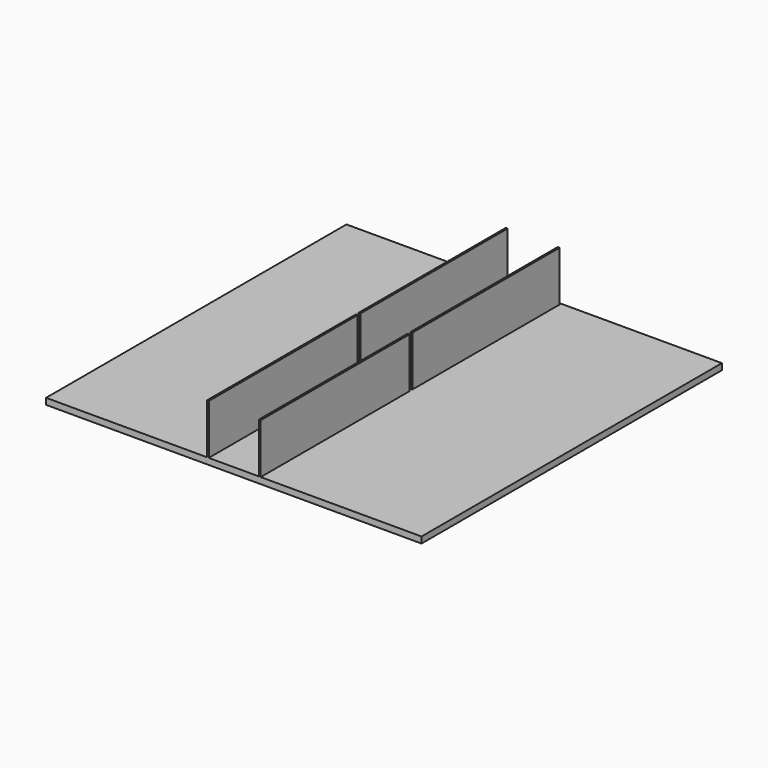
from build123d import *

# Parameters (mm, degrees)
F0_W     = 381
F0_H     = 381
F1_DEPTH = 6.35
F2_W     = 1.905
F2_H     = 186.69
F2_H_2   = 1.905
F3_DEPTH = 50.8


with BuildPart() as f1:
    # F0 (on Top) → F1 (new body)
    with BuildSketch(Plane.XY):
        with Locations((4.5320913196, 25.7314295777)):
            Rectangle(F0_W, F0_H)
    extrude(amount=F1_DEPTH)

    # F2 (on face) → F3 (join)
    with BuildSketch(Plane.XY.offset(6.35)):
        with Locations((-21.8204086804, -69.5185704223)):
            Rectangle(F2_W, F2_H)
        with Locations((30.8845913196, -69.5185704223)):
            Rectangle(F2_W, F2_H)
        with Locations((30.8845913196, -163.8160704223)):
            Rectangle(F2_W, F2_H_2)
        with Locations((-21.8204086804, -163.8160704223)):
            Rectangle(F2_W, F2_H_2)
        with Locations((30.8845913196, 120.9814295777)):
            Rectangle(F2_W, F2_H)
        with Locations((-21.8204086804, 120.9814295777)):
            Rectangle(F2_W, F2_H)
    extrude(amount=F3_DEPTH)


solid = f1.part
